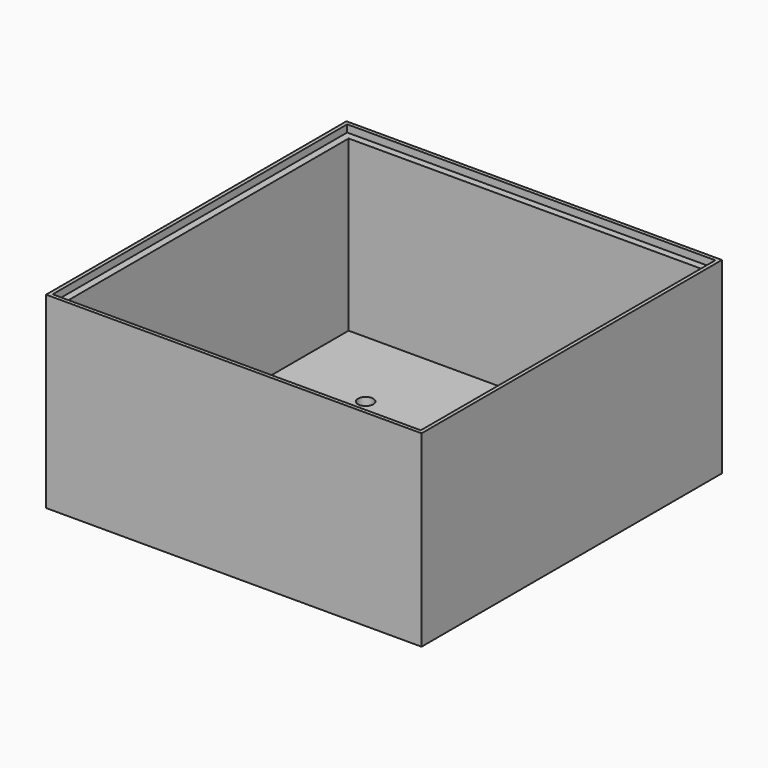
from build123d import *

# Parameters (mm, degrees)
SKETCH_W      = 104
SKETCH_H      = 104
SKETCH_R      = 2.125
SKETCH_R_2    = 6.35
PAD_DEPTH     = 3.175
SKETCH003_W   = 104
SKETCH003_H   = 104
SKETCH003_W_2 = 98
SKETCH003_H_2 = 98
PAD002_DEPTH  = 46.863
SKETCH004_W   = 104
SKETCH004_H   = 104
SKETCH004_W_2 = 101.968
SKETCH004_H_2 = 101.968
PAD003_DEPTH  = 2


with BuildPart() as part:
    # Sketch → Pad (new body)
    with BuildSketch(Plane.XY):
        Rectangle(SKETCH_W, SKETCH_H)
        with Locations((-25.399999, 25.399999)):
            Circle(SKETCH_R, mode=Mode.SUBTRACT)
        with Locations((25.399999, 25.399999)):
            Circle(SKETCH_R, mode=Mode.SUBTRACT)
        with Locations((25.399999, -25.399999)):
            Circle(SKETCH_R, mode=Mode.SUBTRACT)
        with Locations((-25.399999, -25.399999)):
            Circle(SKETCH_R, mode=Mode.SUBTRACT)
        Circle(SKETCH_R_2, mode=Mode.SUBTRACT)
    extrude(amount=PAD_DEPTH)

    # Sketch003 (on Face11 of Pad) → Pad002 (join)
    with BuildSketch(Plane.XY.offset(3.175)):
        Rectangle(SKETCH003_W, SKETCH003_H)
        Rectangle(SKETCH003_W_2, SKETCH003_H_2, mode=Mode.SUBTRACT)
    extrude(amount=PAD002_DEPTH)

    # Sketch004 (on Face14 of Pad002) → Pad003 (join)
    with BuildSketch(Plane.XY.offset(50.038)):
        Rectangle(SKETCH004_W, SKETCH004_H)
        Rectangle(SKETCH004_W_2, SKETCH004_H_2, mode=Mode.SUBTRACT)
    extrude(amount=PAD003_DEPTH)


solid = part.part
